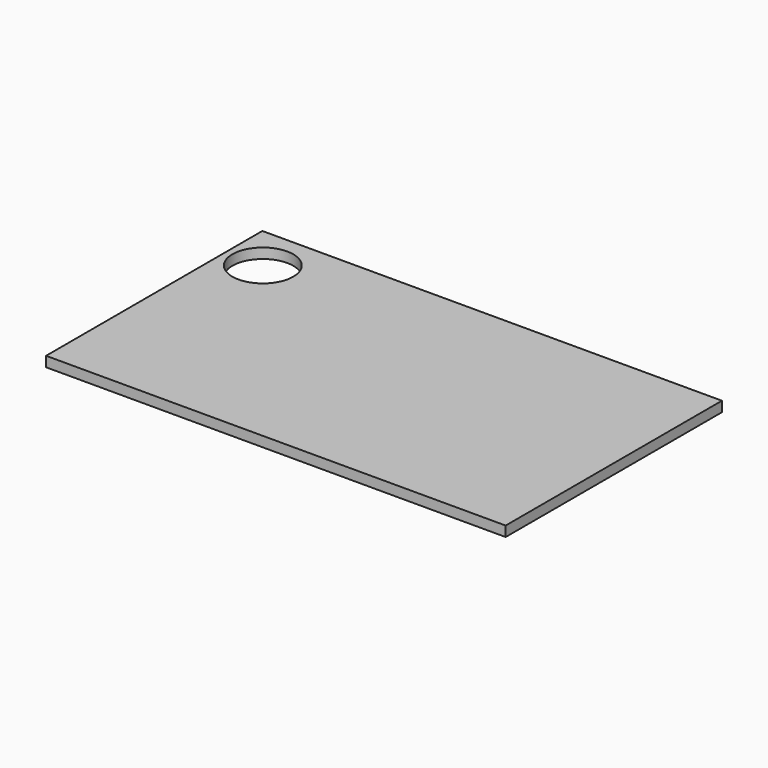
from build123d import *

# Parameters (mm, degrees)
F0_W     = 863.6
F0_H     = 508
F1_DEPTH = 19.05
F2_W     = 19.05
F2_H     = 361.95
F3_DEPTH = 12.7
F4_R     = 57.15
F5_DEPTH = 25.4


with BuildPart() as f1:
    # F0 (on Top) → F1 (new body)
    with BuildSketch(Plane.XY):
        Rectangle(F0_W, F0_H)
    extrude(amount=F1_DEPTH)

    # F2 (on face) → F3 (cut)
    with BuildSketch(Plane(origin=(0, 0, 0), x_dir=(1, 0, 0), z_dir=(0, 0, -1))):
        Polygon((-304.8, -209.55), (381, -209.55), (381, -190.5), (361.95, -190.5), (139.7, -190.5), (120.65, -190.5), (-285.75, -190.5), (-304.8, -190.5), align=None)
        with Locations((371.475, -9.525)):
            Rectangle(F2_W, F2_H)
        with Locations((-295.275, -9.525)):
            Rectangle(F2_W, F2_H)
        with Locations((130.175, -9.525)):
            Rectangle(F2_W, F2_H)
    extrude(amount=-F3_DEPTH, mode=Mode.SUBTRACT)

    # F4 (on face) → F5 (cut)
    with BuildSketch(Plane.XY.offset(19.05)):
        with Locations((-362.7038, 168.77979)):
            Circle(F4_R)
    extrude(amount=-F5_DEPTH, mode=Mode.SUBTRACT)


solid = f1.part
